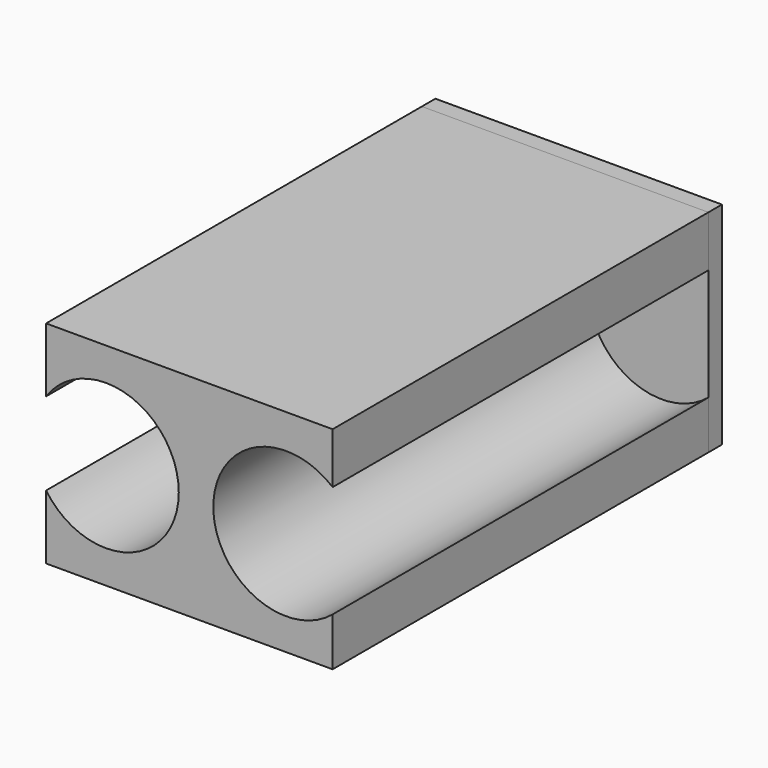
from build123d import *

# Parameters (mm, degrees)
F0_W     = 15.494
F0_H     = 11.43
F1_DEPTH = 0.9144
F3_DEPTH = 25.4


with BuildPart() as f1:
    # F0 (on Front) → F1 (new body)
    with BuildSketch(Plane.XZ):
        with Locations((7.747, 5.715)):
            Rectangle(F0_W, F0_H)
    extrude(amount=F1_DEPTH)


with BuildPart() as f3:
    # F2 (on face) → F3 (new body)
    with BuildSketch(Plane.XZ.offset(0.9144)):
        with BuildLine():
            ThreePointArc((15.494, 2.614482), (9.041307, 5.64289), (15.494, 8.671299))
            Line((15.494, 8.671299), (15.494, 11.43))
            Line((15.494, 11.43), (0, 11.43))
            Line((0, 11.43), (0, 7.954392))
            ThreePointArc((0, 7.954392), (4.411034, 9.473208), (7.17507, 5.715))
            ThreePointArc((7.17507, 5.715), (4.411034, 1.956792), (0, 3.475608))
            Line((0, 3.475608), (0, 0))
            Line((0, 0), (15.494, 0))
            Line((15.494, 0), (15.494, 2.614482))
        make_face()
    extrude(amount=F3_DEPTH)


solid = Compound([f1.part, f3.part])
